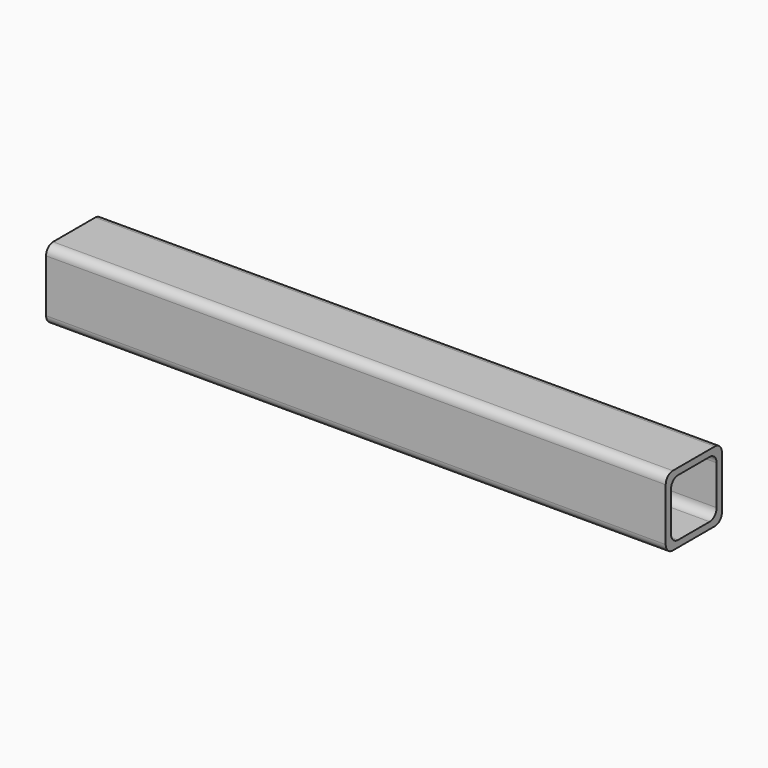
from build123d import *

# Parameters (mm, degrees)
F1_DEPTH = 448.056


with BuildPart() as f1:
    # F0 (on Right) → F1 (new body)
    with BuildSketch(Plane.YZ):
        with BuildLine():
            ThreePointArc((25.4, 19.05), (23.540128, 23.540128), (19.05, 25.4))
            Line((19.05, 25.4), (-19.05, 25.4))
            ThreePointArc((-19.05, 25.4), (-23.540128, 23.540128), (-25.4, 19.05))
            Line((-25.4, 19.05), (-25.4, -19.05))
            ThreePointArc((-25.4, -19.05), (-23.540128, -23.540128), (-19.05, -25.4))
            Line((-19.05, -25.4), (19.05, -25.4))
            ThreePointArc((19.05, -25.4), (23.540128, -23.540128), (25.4, -19.05))
            Line((25.4, -19.05), (25.4, 19.05))
        make_face()
        with BuildLine():
            Line((-14.2875, 20.6375), (14.2875, 20.6375))
            ThreePointArc((14.2875, 20.6375), (18.777628, 18.777628), (20.6375, 14.2875))
            Line((20.6375, 14.2875), (20.6375, -14.2875))
            ThreePointArc((20.6375, -14.2875), (18.777628, -18.777628), (14.2875, -20.6375))
            Line((14.2875, -20.6375), (-14.2875, -20.6375))
            ThreePointArc((-14.2875, -20.6375), (-18.777628, -18.777628), (-20.6375, -14.2875))
            Line((-20.6375, -14.2875), (-20.6375, 14.2875))
            ThreePointArc((-20.6375, 14.2875), (-18.777628, 18.777628), (-14.2875, 20.6375))
        make_face(mode=Mode.SUBTRACT)
    extrude(amount=F1_DEPTH)


solid = f1.part
